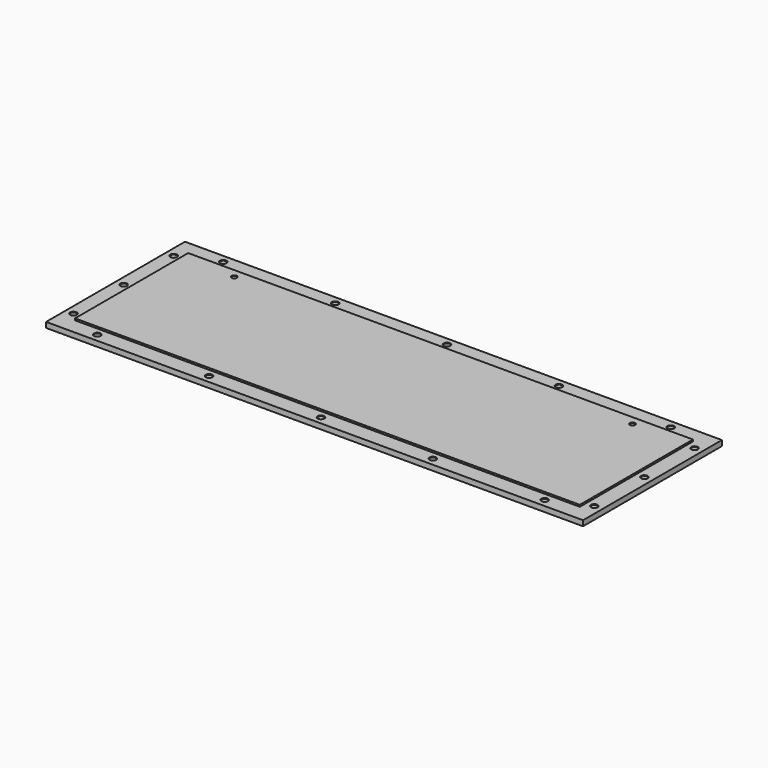
from build123d import *

# Parameters (mm, degrees)
F0_W     = 600
F0_H     = 194
F0_R     = 3.25
F1_DEPTH = 8
F2_W     = 600
F2_H     = 194
F2_W_2   = 564
F2_H_2   = 158
F3_DEPTH = 2
F4_SIZE  = 0.5
F5_R     = 2.5
F6_DEPTH = 25
F7_SIZE  = 0.5


with BuildPart() as f1:
    # F0 (on Top) → F1 (new body)
    with BuildSketch(Plane.XY):
        Rectangle(F0_W, F0_H)
        with Locations((-250, -88)):
            Circle(F0_R, mode=Mode.SUBTRACT)
        with Locations((-291, -70)):
            Circle(F0_R, mode=Mode.SUBTRACT)
        with Locations((-125, -88)):
            Circle(F0_R, mode=Mode.SUBTRACT)
        with Locations((0, -88)):
            Circle(F0_R, mode=Mode.SUBTRACT)
        with Locations((125, -88)):
            Circle(F0_R, mode=Mode.SUBTRACT)
        with Locations((250, -88)):
            Circle(F0_R, mode=Mode.SUBTRACT)
        with Locations((291, -70)):
            Circle(F0_R, mode=Mode.SUBTRACT)
        with Locations((-291, 0)):
            Circle(F0_R, mode=Mode.SUBTRACT)
        with Locations((-291, 70)):
            Circle(F0_R, mode=Mode.SUBTRACT)
        with Locations((-250, 88)):
            Circle(F0_R, mode=Mode.SUBTRACT)
        with Locations((-125, 88)):
            Circle(F0_R, mode=Mode.SUBTRACT)
        with Locations((291, 0)):
            Circle(F0_R, mode=Mode.SUBTRACT)
        with Locations((0, 88)):
            Circle(F0_R, mode=Mode.SUBTRACT)
        with Locations((125, 88)):
            Circle(F0_R, mode=Mode.SUBTRACT)
        with Locations((291, 70)):
            Circle(F0_R, mode=Mode.SUBTRACT)
        with Locations((250, 88)):
            Circle(F0_R, mode=Mode.SUBTRACT)
    extrude(amount=F1_DEPTH)

    # F2 (on face) → F3 (cut)
    with BuildSketch(Plane.XY.offset(8)):
        Rectangle(F2_W, F2_H)
        Rectangle(F2_W_2, F2_H_2, mode=Mode.SUBTRACT)
    extrude(amount=-F3_DEPTH, mode=Mode.SUBTRACT)

    # F4
    f4_edges = [f1.edges().sort_by_distance(p)[0] for p in [
        (-294.25, 70, 0),
        (-287.75, 70, 3),
        (-294.25, 70, 6),
        (-294.25, 0, 0),
        (-287.75, 0, 3),
        (-294.25, 0, 6),
        (-253.25, 88, 0),
        (-246.75, 88, 3),
        (-253.25, 88, 6),
        (-294.25, -70, 0),
        (-287.75, -70, 3),
        (-294.25, -70, 6),
        (-253.25, -88, 0),
        (-246.75, -88, 3),
        (-253.25, -88, 6),
        (-128.25, -88, 0),
        (-121.75, -88, 3),
        (-128.25, -88, 6),
        (-3.25, -88, 0),
        (3.25, -88, 3),
        (-3.25, -88, 6),
        (121.75, -88, 0),
        (128.25, -88, 3),
        (121.75, -88, 6),
        (246.75, -88, 0),
        (253.25, -88, 3),
        (246.75, -88, 6),
        (287.75, -70, 0),
        (294.25, -70, 3),
        (287.75, -70, 6),
        (287.75, 70, 0),
        (294.25, 70, 3),
        (287.75, 70, 6),
        (246.75, 88, 0),
        (253.25, 88, 3),
        (246.75, 88, 6),
        (121.75, 88, 0),
        (128.25, 88, 3),
        (121.75, 88, 6),
        (-3.25, 88, 0),
        (3.25, 88, 3),
        (-3.25, 88, 6),
        (-128.25, 88, 0),
        (-121.75, 88, 3),
        (-128.25, 88, 6),
        (287.75, 0, 0),
        (294.25, 0, 3),
        (287.75, 0, 6),
    ]]
    chamfer(f4_edges, length=F4_SIZE)

    # F5 (on face) → F6 (cut)
    with BuildSketch(Plane.XY.offset(8)):
        with Locations((-222.5, 69)):
            Circle(F5_R)
        with Locations((222.5, 69)):
            Circle(F5_R)
    extrude(amount=-F6_DEPTH, mode=Mode.SUBTRACT)

    # F7
    f7_edges = [f1.edges().sort_by_distance(p)[0] for p in [
        (-225, 69, 8),
        (-220, 69, 4),
        (-225, 69, 0),
        (220, 69, 8),
        (225, 69, 4),
        (220, 69, 0),
    ]]
    chamfer(f7_edges, length=F7_SIZE)


solid = f1.part
